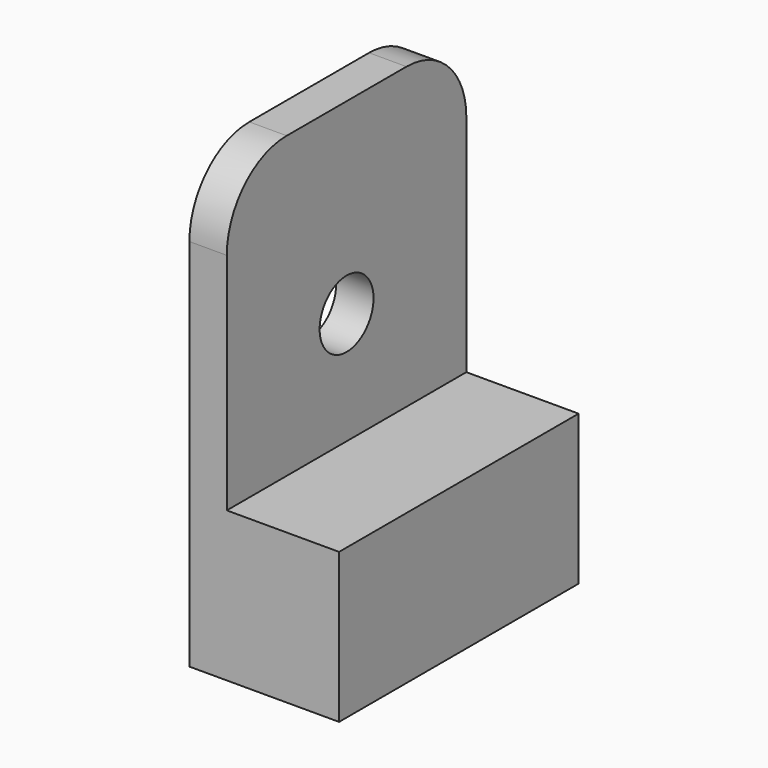
from build123d import *

# Parameters (mm, degrees)
F0_R     = 4.5
F1_DEPTH = 5
F2_W     = 40
F2_H     = 20
F3_DEPTH = 15


with BuildPart() as f1:
    # F0 (on Right) → F1 (new body)
    with BuildSketch(Plane.YZ):
        with BuildLine():
            Line((11.733489, 34.444981), (-8.266511, 34.444981))
            ThreePointArc((-8.266511, 34.444981), (-15.337578, 31.516049), (-18.266511, 24.444981))
            Line((-18.266511, 24.444981), (-18.266511, -25.555019))
            Line((-18.266511, -25.555019), (21.733489, -25.555019))
            Line((21.733489, -25.555019), (21.733489, 24.444981))
            ThreePointArc((21.733489, 24.444981), (18.804557, 31.516049), (11.733489, 34.444981))
        make_face()
        with Locations((1.733489, 9.444981)):
            Circle(F0_R, mode=Mode.SUBTRACT)
    extrude(amount=F1_DEPTH)

    # F2 (on face) → F3 (join)
    with BuildSketch(Plane.YZ.offset(5)):
        with Locations((1.733489, -15.555019)):
            Rectangle(F2_W, F2_H)
    extrude(amount=F3_DEPTH)


solid = f1.part
